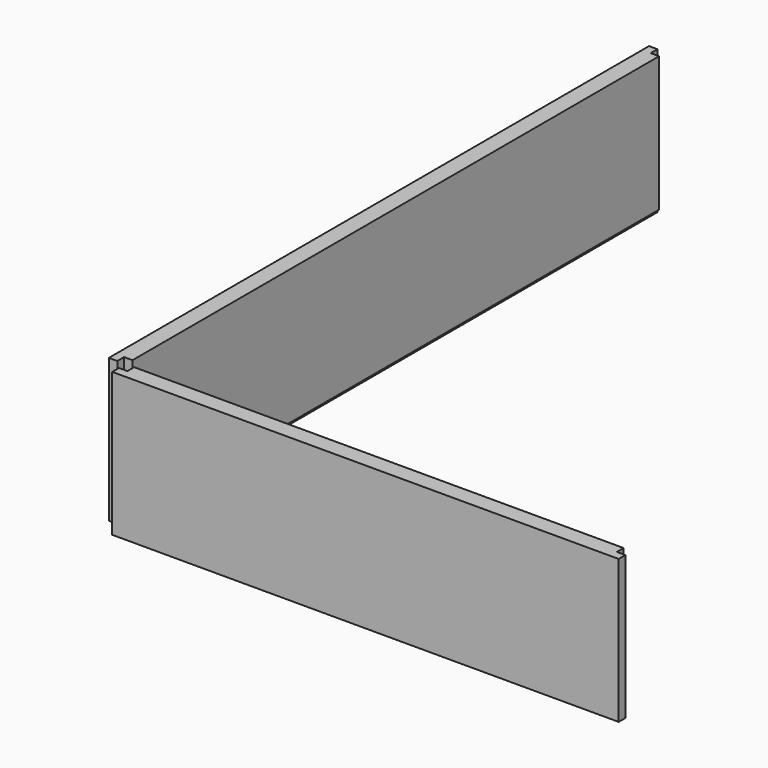
from build123d import *

# Parameters (mm, degrees)
F1_DEPTH = 53.975
F3_DEPTH = 53.975
F4_W     = 495.3
F4_H     = 6.35
F5_DEPTH = 6.35
F6_W     = 368.3
F6_H     = 6.35
F7_DEPTH = 6.35


with BuildPart() as f1:
    # F0 (on Top) → F1 (new body, symmetric)
    with BuildSketch(Plane.XY):
        Polygon((-196.85, 254), (-203.2, 254), (-203.2, -254), (-196.85, -254), (-196.85, -247.65), (-190.5, -247.65), (-190.5, 247.65), (-196.85, 247.65), align=None)
    extrude(amount=F1_DEPTH, both=True)

    # F4 (on face) → F5 (cut, through all)
    with BuildSketch(Plane.YZ.offset(-190.5)):
        with Locations((0, -50.8)):
            Rectangle(F4_W, F4_H)
    extrude(amount=-F5_DEPTH, mode=Mode.SUBTRACT)


with BuildPart() as f3:
    # F2 (on Top) → F3 (new body, symmetric)
    with BuildSketch(Plane.XY):
        Polygon((184.15, -254), (-184.15, -254), (-184.15, -260.35), (-190.5, -260.35), (-190.5, -266.7), (190.5, -266.7), (190.5, -260.35), (184.15, -260.35), align=None)
    extrude(amount=F3_DEPTH, both=True)

    # F6 (on face) → F7 (cut, through all)
    with BuildSketch(Plane(origin=(0, -254, 0), x_dir=(-1, 0, 0), z_dir=(0, 1, 0))):
        with Locations((0, -50.8)):
            Rectangle(F6_W, F6_H)
    extrude(amount=-F7_DEPTH, mode=Mode.SUBTRACT)


solid = Compound([f1.part, f3.part])
